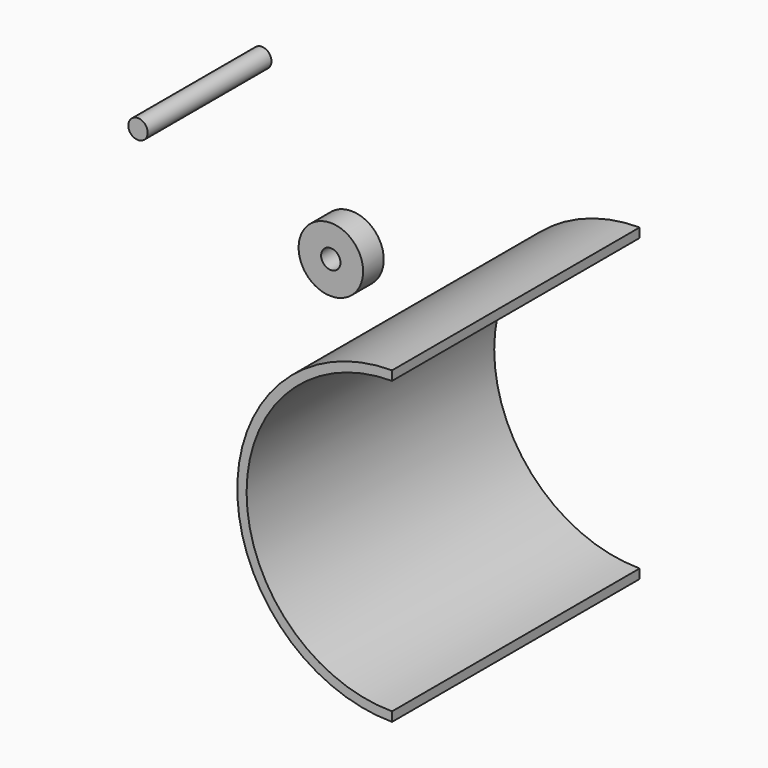
from build123d import *

# Parameters (mm, degrees)
F1_DEPTH = 304.8
F2_R     = 143.236944
F3_DEPTH = 304.8
F4_R     = 9.525
F5_DEPTH = 152.4
F6_R     = 31.75
F7_DEPTH = 25.4
F8_R     = 9.525
F9_DEPTH = 25.4


with BuildPart() as f1:
    # F0 (on Front) → F1 (new body)
    with BuildSketch(Plane.XZ):
        with BuildLine():
            Line((0, -152.4), (0, 152.4))
            ThreePointArc((0, 152.4), (-152.4, 0), (0, -152.4))
        make_face()
    extrude(amount=F1_DEPTH)

    # F2 (on Front) → F3 (cut)
    with BuildSketch(Plane.XZ):
        Circle(F2_R)
    extrude(amount=F3_DEPTH, mode=Mode.SUBTRACT)


with BuildPart() as f5:
    # F4 (on Front) → F5 (new body)
    with BuildSketch(Plane.XZ):
        with Locations((-372.104466, 178.584084)):
            Circle(F4_R)
    extrude(amount=F5_DEPTH)


with BuildPart() as f7:
    # F6 (on Front) → F7 (new body)
    with BuildSketch(Plane.XZ):
        with Locations((-283.77825, 42.592432)):
            Circle(F6_R)
    extrude(amount=F7_DEPTH)

    # F8 (on Front) → F9 (cut)
    with BuildSketch(Plane.XZ):
        with Locations((-283.846796, 42.970479)):
            Circle(F8_R)
    extrude(amount=F9_DEPTH, mode=Mode.SUBTRACT)


solid = Compound([f1.part, f5.part, f7.part])
